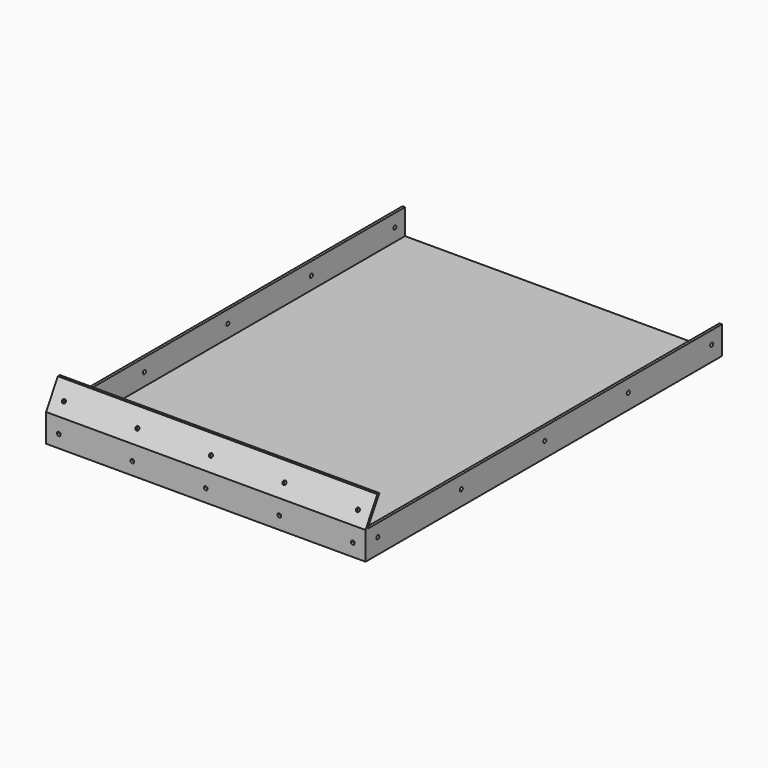
from build123d import *

# Parameters (mm, degrees)
SKETCH036_W     = 251
SKETCH036_H     = 42.0000000661
PAD011_DEPTH    = 350
POCKET021_DEPTH = 251.001
POCKET022_DEPTH = 251.001
SKETCH039_W     = 2
SKETCH039_H     = 348
PAD012_DEPTH    = 20
SKETCH067_R     = 1.5
POCKET043_DEPTH = 5
SKETCH068_R     = 1.5
POCKET044_DEPTH = 5
SKETCH069_R     = 1.5
POCKET045_DEPTH = 251.001


with BuildPart() as part:
    # Sketch036 (on Face1 of Binder010) → Pad011 (new body)
    with BuildSketch(Plane(origin=(0, -0.1, 0), x_dir=(-1, 0, 0), z_dir=(0, 1, 0))):
        with Locations((-752.5, -204.170471033)):
            Rectangle(SKETCH036_W, SKETCH036_H)
    extrude(amount=PAD011_DEPTH)

    # Sketch037 (on Face1 of Pad011) → Pocket021 (cut, through all)
    with BuildSketch(Plane.YZ.offset(878)):
        Polygon((-0.1, -183.170471), (11.4640419741, -183.170471), (-0.1, -203.2), align=None)
    extrude(amount=-POCKET021_DEPTH, mode=Mode.SUBTRACT)

    # Sketch038 (on Face1 of Pocket021) → Pocket022 (cut, through all)
    with BuildSketch(Plane.YZ.offset(878)):
        Polygon((13.4640419741, -183.170471), (1.9, -203.2), (1.9, -223.1704710661), (349.9, -223.1704710661), (349.9, -183.170471), align=None)
    extrude(amount=-POCKET022_DEPTH, mode=Mode.SUBTRACT)

    # Sketch039 (on Face5 of Pocket022) → Pad012 (join)
    with BuildSketch(Plane.XY.offset(-223.1704710661)):
        with Locations((877, 175.9)):
            Rectangle(SKETCH039_W, SKETCH039_H)
        with Locations((628, 175.9)):
            Rectangle(SKETCH039_W, SKETCH039_H)
    extrude(amount=PAD012_DEPTH)

    # Sketch067 (on Face5 of Pad012) → Pocket043 (cut)
    with BuildSketch(Plane(origin=(0, 87.9131353872, -50.7566197735), x_dir=(1, 0, 0), z_dir=(0, -0.8660256282, 0.4999996113))):
        with Locations((868, -166.026408)):
            Circle(SKETCH067_R)
        with Locations((810.25, -166.026408)):
            Circle(SKETCH067_R)
        with Locations((752.5, -166.026408)):
            Circle(SKETCH067_R)
        with Locations((694.75, -166.026408)):
            Circle(SKETCH067_R)
        with Locations((637, -166.026408)):
            Circle(SKETCH067_R)
    extrude(amount=-POCKET043_DEPTH, mode=Mode.SUBTRACT)

    # Sketch068 (on Face18 of Pocket043) → Pocket044 (cut)
    with BuildSketch(Plane.XZ.offset(0.1)):
        with Locations((868, -215.170471)):
            Circle(SKETCH068_R)
        with Locations((810.25, -215.170471)):
            Circle(SKETCH068_R)
        with Locations((752.5, -215.170471)):
            Circle(SKETCH068_R)
        with Locations((694.75, -215.170471)):
            Circle(SKETCH068_R)
        with Locations((637, -215.170471)):
            Circle(SKETCH068_R)
    extrude(amount=-POCKET044_DEPTH, mode=Mode.SUBTRACT)

    # Sketch069 (on Face10 of Pocket044) → Pocket045 (cut, through all)
    with BuildSketch(Plane(origin=(627, 0, 0), x_dir=(0, -1, 0), z_dir=(-1, 0, 0))):
        with Locations((-11.917049, -213.170471)):
            Circle(SKETCH069_R)
        with Locations((-93.912786, -213.170471)):
            Circle(SKETCH069_R)
        with Locations((-175.908524, -213.170471)):
            Circle(SKETCH069_R)
        with Locations((-257.904262, -213.170471)):
            Circle(SKETCH069_R)
        with Locations((-339.9, -213.170471)):
            Circle(SKETCH069_R)
    extrude(amount=-POCKET045_DEPTH, mode=Mode.SUBTRACT)


solid = part.part
